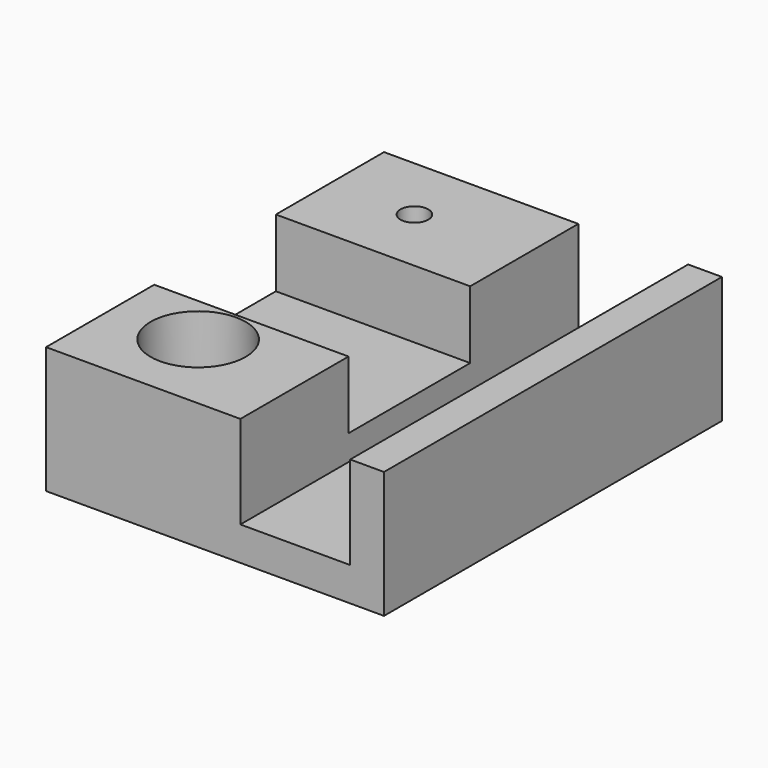
from build123d import *

# Parameters (mm, degrees)
F1_DEPTH       = 50
F3_DEPTH       = 8
F5_D           = 6.6
F5_CBORE_D     = 11.25
F5_CBORE_DEPTH = 6
F7_D           = 3.3
F8_DEPTH       = 15


with BuildPart() as f1:
    # F0 (on Front) → F1 (new body)
    with BuildSketch(Plane.XZ):
        Polygon((0, -30), (0, 0), (-4, 0), (-4, -11), (-17, -11), (-17, 0), (-40, 0), (-40, -30), align=None)
        Polygon((0, -30), (0, 0), (-4, 0), (-4, -11), (-17, -11), (-17, 0), (-40, 0), (-40, -30), align=None)
    extrude(amount=F1_DEPTH)

    # F2 (on face) → F3 (cut)
    with BuildSketch(Plane.XY):
        Polygon((-40, -16), (-40, -25), (-40, -34), (-17, -34), (-17, -16), align=None)
    extrude(amount=-F3_DEPTH, mode=Mode.SUBTRACT)

    # F5 (through all)
    with Locations(Plane.XY):
        with Locations((-30, -40)):
            CounterBoreHole(F5_D / 2, F5_CBORE_D / 2, F5_CBORE_DEPTH)

    # F7 (through all)
    with Locations(Plane.XY):
        with Locations((-30, -8)):
            Hole(F7_D / 2)

    # F8 (cut): a face of the model
    f8_faces = [f1.faces().sort_by_distance(p)[0] for p in [
        (-19.7815033531, -24.8120928837, -30),
    ]]
    extrude(f8_faces, amount=-F8_DEPTH, mode=Mode.SUBTRACT)


solid = f1.part
